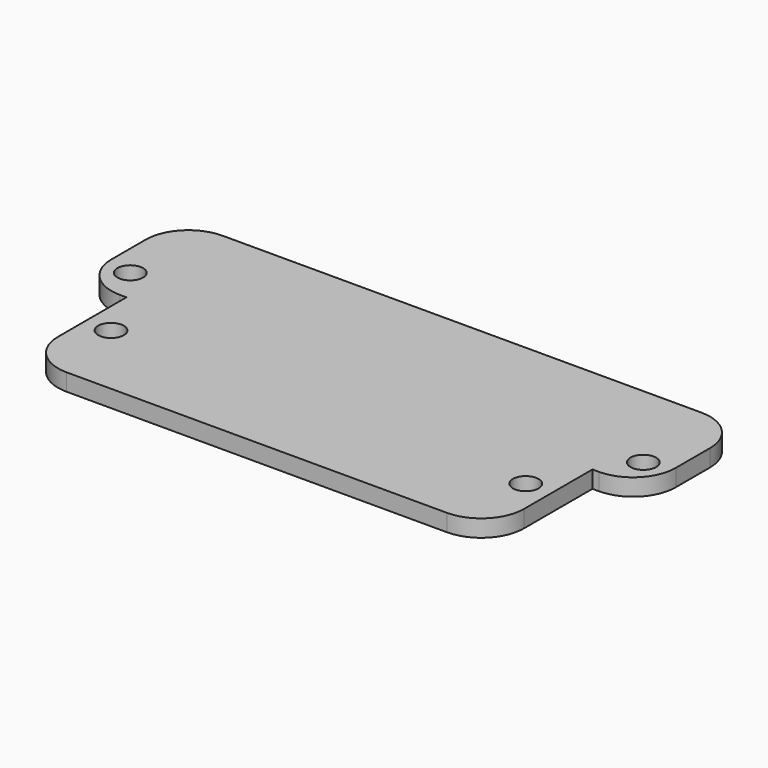
from build123d import *

# Parameters (mm, degrees)
F0_R     = 1.5
F0_W     = 54.5
F0_H     = 15
F1_DEPTH = 2
F2_R     = 5


with BuildPart() as f1:
    # F0 (on Top) → F1 (new body)
    with BuildSketch(Plane.XY):
        Polygon((27.25, -7.5), (33, -7.5), (33, 7.5), (-33, 7.5), (-33, -7.5), (-27.25, -7.5), align=None)
        with Locations((-30, -3.5)):
            Circle(F0_R, mode=Mode.SUBTRACT)
        with Locations((30, -3.5)):
            Circle(F0_R, mode=Mode.SUBTRACT)
        with Locations((0, -15)):
            Rectangle(F0_W, F0_H)
        with Locations((-24.25, -13.5)):
            Circle(F0_R, mode=Mode.SUBTRACT)
        with Locations((24.25, -13.5)):
            Circle(F0_R, mode=Mode.SUBTRACT)
    extrude(amount=F1_DEPTH)

    # F2
    f2_edges = [f1.edges().sort_by_distance(p)[0] for p in [
        (-33, 7.5, 1),
        (33, 7.5, 1),
        (27.25, -22.5, 1),
        (-27.25, -22.5, 1),
        (33, -7.5, 1),
        (-33, -7.5, 1),
    ]]
    fillet(f2_edges, radius=F2_R)


solid = f1.part
